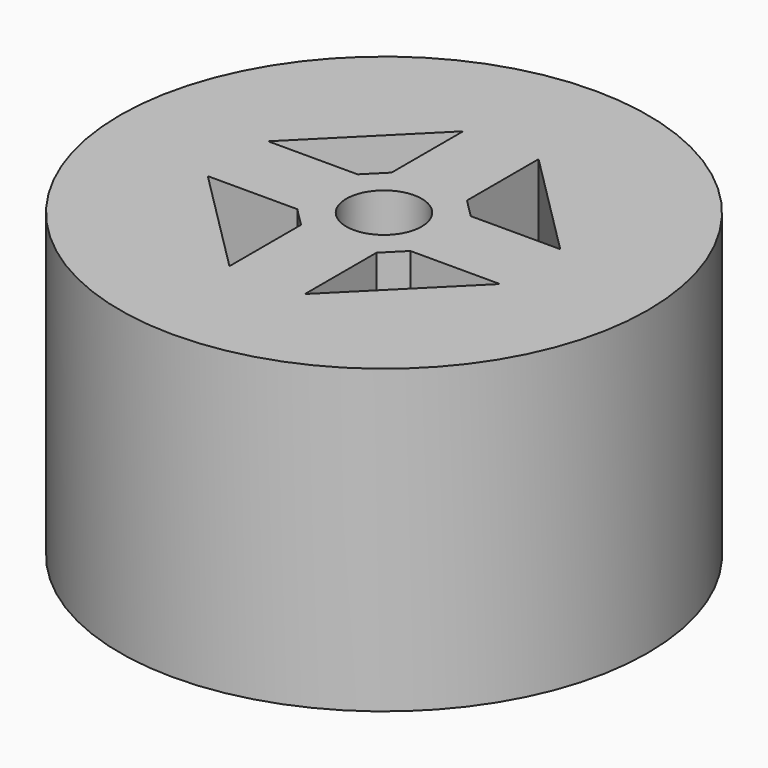
from build123d import *

# Parameters (mm, degrees)
F0_R     = 8.89
F0_R_2   = 1.27
F1_DEPTH = 10.16


with BuildPart() as f1:
    # F0 (on Top) → F1 (new body)
    with BuildSketch(Plane.XY):
        Circle(F0_R)
        Polygon((-4.918689, -1.27), (-1.905, -1.27), (-1.27, -1.905), (-1.27, -4.918689), align=None, mode=Mode.SUBTRACT)
        Circle(F0_R_2, mode=Mode.SUBTRACT)
        Polygon((1.27, -4.918689), (1.27, -1.905), (1.905, -1.27), (4.918689, -1.27), align=None, mode=Mode.SUBTRACT)
        Polygon((-4.918689, 1.27), (-1.27, 4.918689), (-1.27, 1.905), (-1.905, 1.27), align=None, mode=Mode.SUBTRACT)
        Polygon((1.905, 1.27), (1.27, 1.905), (1.27, 4.918689), (4.918689, 1.27), align=None, mode=Mode.SUBTRACT)
    extrude(amount=F1_DEPTH)


solid = f1.part
